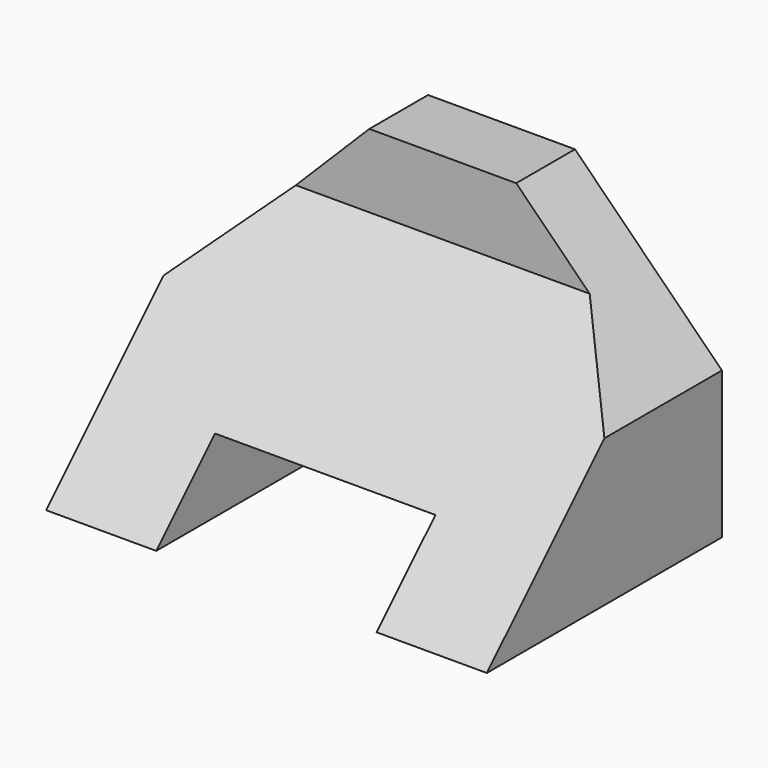
from build123d import *

# Parameters (mm, degrees)
F0_W     = 38.1
F0_H     = 12.7
F1_DEPTH = 12.7
F3_DEPTH = 76.2
F4_DEPTH = 38.101
F5_DEPTH = 38.101


with BuildPart() as f1:
    # F0 (on Front) → F1 (new body)
    with BuildSketch(Plane.XZ):
        Polygon((0, 25.4), (0, 0), (38.1, 38.1), (76.2, 0), (76.2, 25.4), (50.8, 50.8), (25.4, 50.8), align=None)
        Polygon((38.1, 38.1), (0, 0), (19.05, 0), (19.05, 12.7), (57.15, 12.7), (57.15, 0), (76.2, 0), align=None)
        with Locations((38.1, 6.35)):
            Rectangle(F0_W, F0_H)
    extrude(amount=-F1_DEPTH)

    # F2 (on Right) → F3 (join)
    with BuildSketch(Plane.YZ):
        Polygon((-38.1, 0), (0, 0), (0, 38.1), align=None)
    extrude(amount=F3_DEPTH)

    # F4 (cut, through all): faces of the model
    f4_faces = [f1.faces().sort_by_distance(p)[0] for p in [
        (4.2333333333, 0, 33.8666666667),
        (71.9666666667, 0, 33.8666666667),
    ]]
    extrude(f4_faces, amount=-F4_DEPTH, mode=Mode.SUBTRACT)

    # F0 (on Front) → F5 (cut, through all)
    with BuildSketch(Plane.XZ):
        with Locations((38.1, 6.35)):
            Rectangle(F0_W, F0_H)
    extrude(amount=F5_DEPTH, mode=Mode.SUBTRACT)


solid = f1.part
